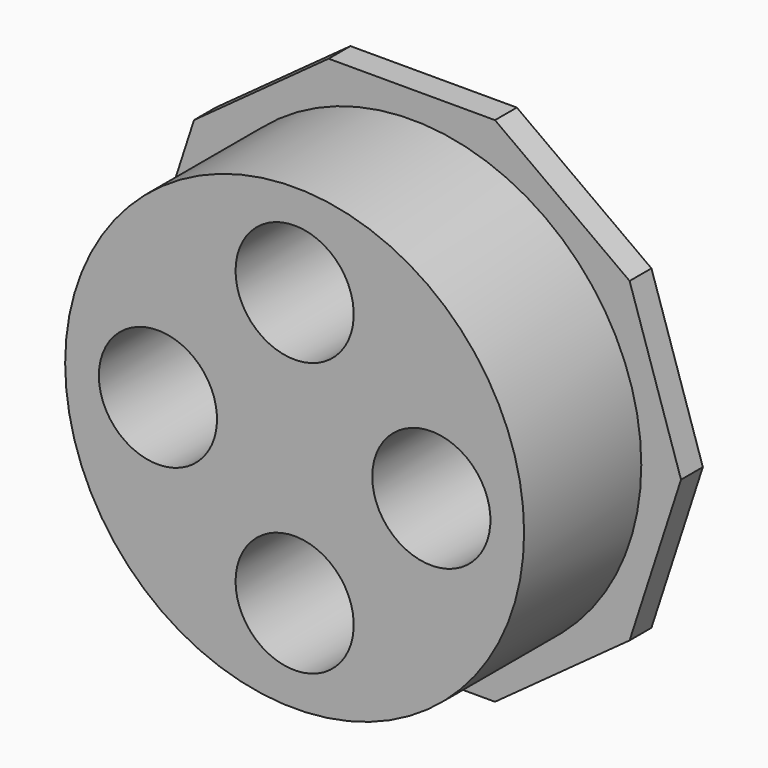
from build123d import *

# Parameters (mm, degrees)
F1_DEPTH = 2.794
F2_R     = 23.5
F3_DEPTH = 15
F5_D     = 12.1
F7_D     = 9
F7_DEPTH = 3
F7_TIP   = 2.7038727856
F9_D     = 17
F9_DEPTH = 2
F9_TIP   = 5.1073152617


with BuildPart() as f1:
    # F0 (on Front) → F1 (new body)
    with BuildSketch(Plane.XZ):
        Polygon((-22.3028203132, 16.203947452), (-27.5678019971, 0), (-22.3028203132, -16.203947452), (-8.5189193147, -26.2185377292), (8.5189193147, -26.2185377292), (22.3028203132, -16.203947452), (27.5678019971, 0), (22.3028203132, 16.203947452), (8.5189193147, 26.2185377292), (-8.5189193147, 26.2185377292), align=None)
    extrude(amount=F1_DEPTH)

    # F2 (on face) → F3 (join)
    with BuildSketch(Plane.XZ.offset(2.794)):
        Circle(F2_R)
    extrude(amount=F3_DEPTH)

    # F5 (through all)
    with Locations(Plane.XZ.offset(17.794)):
        with Locations((-14, 0), (0, 14), (14, 0), (0, -14)):
            Hole(F5_D / 2)

    # F7
    with Locations(Plane(origin=(0, 0, 0), x_dir=(-1, 0, 0), z_dir=(0, 1, 0))):
        with Locations((0, 0)):
            Hole(F7_D / 2, depth=F7_DEPTH)
            with Locations((0, 0, -(F7_DEPTH + F7_TIP / 2))):  # 118° drill point
                Cone(0, F7_D / 2, F7_TIP, mode=Mode.SUBTRACT)

    # F9
    with Locations(Plane(origin=(0, 0, 0), x_dir=(-1, 0, 0), z_dir=(0, 1, 0))):
        with Locations((-14, 0), (0, 14), (14, 0), (0, -14)):
            Hole(F9_D / 2, depth=F9_DEPTH)
            with Locations((0, 0, -(F9_DEPTH + F9_TIP / 2))):  # 118° drill point
                Cone(0, F9_D / 2, F9_TIP, mode=Mode.SUBTRACT)


solid = f1.part
